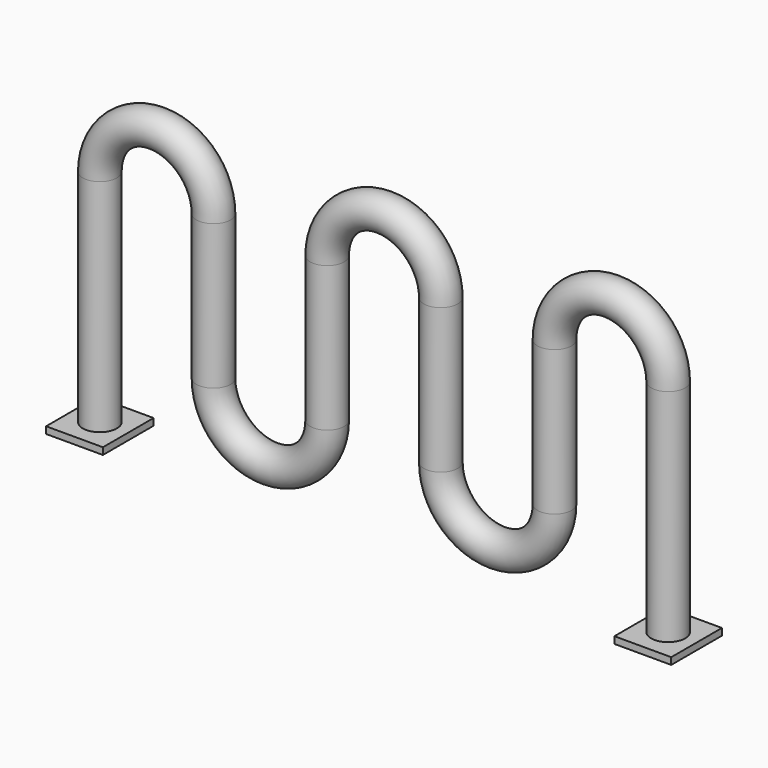
from build123d import *

# Parameters (mm, degrees)
F1_R     = 1.905
F1_W     = 6.35
F1_H     = 7.077968
F3_DEPTH = 0.762


with BuildPart() as f2:
    # F2: sweep along a path in F0
    with BuildLine(Plane.XZ) as f2_path:
        Line((-70.588203, 0), (-70.588203, 25.4))
        ThreePointArc((-70.588203, 25.4), (-64.238203, 31.75), (-57.888203, 25.4))
        Line((-57.888203, 25.4), (-57.888203, 9.220504))
        ThreePointArc((-57.888203, 9.220504), (-51.538203, 2.870504), (-45.188203, 9.220504))
        Line((-45.188203, 9.220504), (-45.188203, 25.4))
        ThreePointArc((-45.188203, 25.4), (-38.838203, 31.75), (-32.488203, 25.4))
        Line((-32.488203, 25.4), (-32.488203, 9.220504))
        ThreePointArc((-32.488203, 9.220504), (-26.138203, 2.870504), (-19.788203, 9.220504))
        Line((-19.788203, 9.220504), (-19.788203, 25.4))
        ThreePointArc((-19.788203, 25.4), (-13.438203, 31.75), (-7.088203, 25.4))
        Line((-7.088203, 25.4), (-7.088203, 0))
    # F1 (on Top) → F2 (sweep)
    with BuildSketch(Plane.XY):
        with Locations((-70.588203, 0)):
            Circle(F1_R)
    sweep(path=f2_path.line)

    # F1 (on Top) → F3 (join)
    with BuildSketch(Plane.XY):
        with Locations((-70.588203, 0)):
            Rectangle(F1_W, F1_H)
        with Locations((-70.588203, 0)):
            Circle(F1_R, mode=Mode.SUBTRACT)
        with Locations((-7.088203, 0)):
            Rectangle(F1_W, F1_H)
        with Locations((-7.088203, 0)):
            Circle(F1_R, mode=Mode.SUBTRACT)
    extrude(amount=F3_DEPTH)


solid = f2.part
